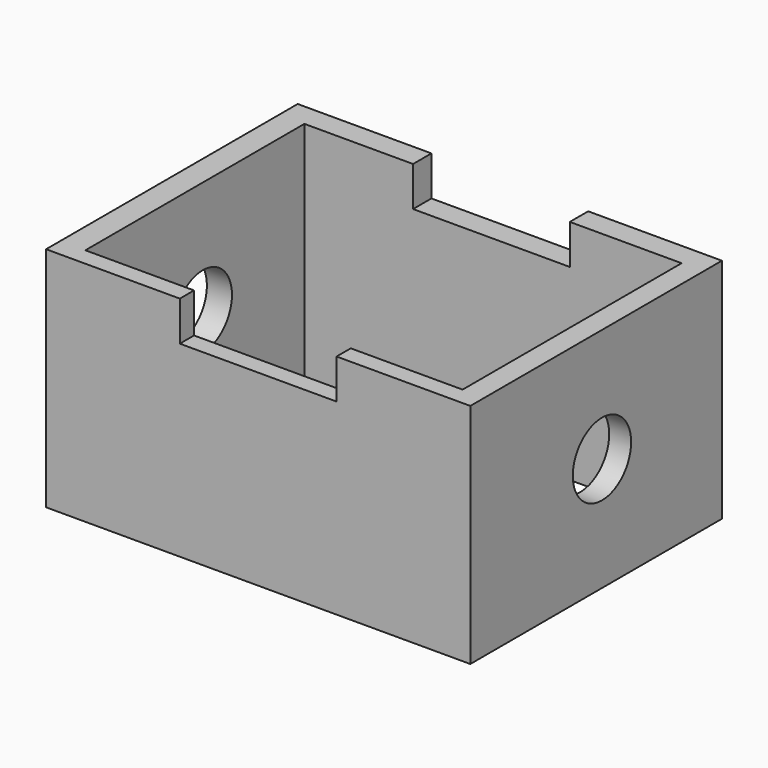
from build123d import *

# Parameters (mm, degrees)
F0_W     = 118.554965
F0_H     = 87.894202
F1_DEPTH = 63.5
F2_W     = 105.414637
F2_H     = 76.505914
F3_DEPTH = 63.5
F5_DEPTH = 127
F6_R     = 10.184042
F7_DEPTH = 254


with BuildPart() as f1:
    # F0 (on Top) → F1 (new body)
    with BuildSketch(Plane.XY):
        with Locations((0.438012, -2.044052)):
            Rectangle(F0_W, F0_H)
    extrude(amount=F1_DEPTH)

    # F2 (on face) → F3 (cut)
    with BuildSketch(Plane.XY.offset(63.5)):
        with Locations((0.87602, -2.774071)):
            Rectangle(F2_W, F2_H)
    extrude(amount=-F3_DEPTH, mode=Mode.SUBTRACT)

    # F4 (on face) → F5 (cut)
    with BuildSketch(Plane.XZ.offset(45.991153)):
        Polygon((22.338558, 63.5), (-21.462537, 63.5), (-21.462537, 52.415308), (0.438012, 52.415308), (22.338558, 52.415308), align=None)
    extrude(amount=-F5_DEPTH, mode=Mode.SUBTRACT)

    # F6 (on face) → F7 (cut)
    with BuildSketch(Plane.YZ.offset(59.715495)):
        with Locations((0, 31.75)):
            Circle(F6_R)
    extrude(amount=-F7_DEPTH, mode=Mode.SUBTRACT)


solid = f1.part
